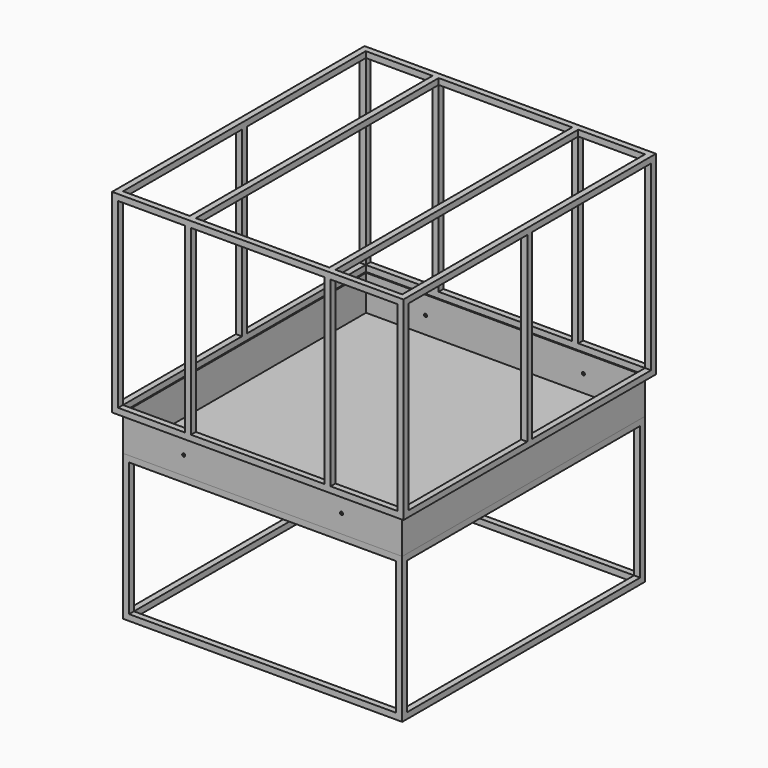
from build123d import *

# Parameters (mm, degrees)
F0_W      = 609.6
F0_H      = 406.4
F0_W_2    = 139.7
F0_H_2    = 381
F0_W_3    = 279.4
F1_DEPTH  = 660.4
F2_W      = 139.7
F2_H      = 152.4
F2_W_2    = 279.4
F2_H_2    = 304.8
F3_DEPTH  = 406.401
F4_W      = 152.4
F4_H      = 381
F4_W_2    = 304.8
F5_DEPTH  = 609.601
F6_W      = 12.7
F6_H      = 381
F7_DEPTH  = 304.8
F8_W      = 139.7
F8_H      = 12.7
F8_W_2    = 279.4
F9_DEPTH  = 406.401
F10_W     = 12.7
F10_H     = 635
F11_DEPTH = 25.4
F12_W     = 584.2
F12_H     = 635
F13_DEPTH = 76.2
F14_T     = -2.54
F15_R     = 3.175
F16_DEPTH = 647.701
F17_W     = 584.2
F17_H     = 635
F18_DEPTH = 304.8
F19_W     = 558.8
F19_H     = 279.4
F20_DEPTH = 647.701
F21_W     = 609.6
F21_H     = 279.4
F22_DEPTH = 596.901
F23_W     = 558.8
F23_H     = 609.6
F24_DEPTH = 787.401
F25_W     = 12.7
F25_H     = 381
F26_DEPTH = 609.601
F27_W     = 12.7
F27_H     = 381
F28_DEPTH = 12.7
F29_W     = 12.7
F29_H     = 381
F30_DEPTH = 12.7


with BuildPart() as f1:
    # F0 (on Front) → F1 (new body)
    with BuildSketch(Plane.XZ):
        with Locations((-304.8, 203.2)):
            Rectangle(F0_W, F0_H)
        with Locations((-527.05, 203.2)):
            Rectangle(F0_W_2, F0_H_2, mode=Mode.SUBTRACT)
        with Locations((-304.8, 203.2)):
            Rectangle(F0_W_3, F0_H_2, mode=Mode.SUBTRACT)
        with Locations((-82.55, 203.2)):
            Rectangle(F0_W_2, F0_H_2, mode=Mode.SUBTRACT)
    extrude(amount=F1_DEPTH)

    # F2 (on face) → F3 (cut, through all)
    with BuildSketch(Plane.XY.offset(406.4)):
        with Locations((-527.05, -88.9)):
            Rectangle(F2_W, F2_H)
        with Locations((-304.8, -88.9)):
            Rectangle(F2_W_2, F2_H)
        with Locations((-82.55, -88.9)):
            Rectangle(F2_W, F2_H)
        with Locations((-82.55, -330.2)):
            Rectangle(F2_W, F2_H_2)
        with Locations((-304.8, -330.2)):
            Rectangle(F2_W_2, F2_H_2)
        with Locations((-527.05, -330.2)):
            Rectangle(F2_W, F2_H_2)
        with Locations((-527.05, -571.5)):
            Rectangle(F2_W, F2_H)
        with Locations((-304.8, -571.5)):
            Rectangle(F2_W_2, F2_H)
        with Locations((-82.55, -571.5)):
            Rectangle(F2_W, F2_H)
    extrude(amount=-F3_DEPTH, mode=Mode.SUBTRACT)

    # F4 (on face) → F5 (cut, through all)
    with BuildSketch(Plane.YZ):
        with Locations((-571.5, 203.2)):
            Rectangle(F4_W, F4_H)
        with Locations((-330.2, 203.2)):
            Rectangle(F4_W_2, F4_H)
        with Locations((-88.9, 203.2)):
            Rectangle(F4_W, F4_H)
    extrude(amount=-F5_DEPTH, mode=Mode.SUBTRACT)

    # F6 (on face) → F7 (cut)
    with BuildSketch(Plane.YZ.offset(-152.4)):
        with Locations((-488.95, 203.2)):
            Rectangle(F6_W, F6_H)
        with Locations((-171.45, 203.2)):
            Rectangle(F6_W, F6_H)
    extrude(amount=-F7_DEPTH, mode=Mode.SUBTRACT)

    # F8 (on face) → F9 (cut, through all)
    with BuildSketch(Plane.XY.offset(406.4)):
        with Locations((-527.05, -171.45)):
            Rectangle(F8_W, F8_H)
        with Locations((-304.8, -171.45)):
            Rectangle(F8_W_2, F8_H)
        with Locations((-82.55, -171.45)):
            Rectangle(F8_W, F8_H)
        with Locations((-82.55, -488.95)):
            Rectangle(F8_W, F8_H)
        with Locations((-304.8, -488.95)):
            Rectangle(F8_W_2, F8_H)
        with Locations((-527.05, -488.95)):
            Rectangle(F8_W, F8_H)
    extrude(amount=-F9_DEPTH, mode=Mode.SUBTRACT)

    # F10 (on face) → F11 (cut)
    with BuildSketch(Plane(origin=(0, 0, 0), x_dir=(1, 0, 0), z_dir=(0, 0, -1))):
        with Locations((-450.85, 330.2)):
            Rectangle(F10_W, F10_H)
        with Locations((-158.75, 330.2)):
            Rectangle(F10_W, F10_H)
    extrude(amount=-F11_DEPTH, mode=Mode.SUBTRACT)

    # F25 (on face) → F26 (cut, through all)
    with BuildSketch(Plane.YZ):
        with Locations((-488.95, 203.2)):
            Rectangle(F25_W, F25_H)
        with Locations((-171.45, 203.2)):
            Rectangle(F25_W, F25_H)
    extrude(amount=-F26_DEPTH, mode=Mode.SUBTRACT)

    # F27 (on face) → F28 (join)
    with BuildSketch(Plane.YZ):
        with Locations((-330.2, 203.2)):
            Rectangle(F27_W, F27_H)
    extrude(amount=-F28_DEPTH)

    # F29 (on face) → F30 (join)
    with BuildSketch(Plane(origin=(-609.6, 0, 0), x_dir=(0, -1, 0), z_dir=(-1, 0, 0))):
        with Locations((330.2, 203.2)):
            Rectangle(F29_W, F29_H)
    extrude(amount=-F30_DEPTH)


with BuildPart() as f13:
    # F12 (on face) → F13 (new body)
    with BuildSketch(Plane(origin=(0, 0, 0), x_dir=(1, 0, 0), z_dir=(0, 0, -1))):
        with Locations((-304.8, 330.2)):
            Rectangle(F12_W, F12_H)
    extrude(amount=F13_DEPTH)

    # F14
    f14_openings = [f13.faces().sort_by_distance(p)[0] for p in [
        (-304.8, -330.2, 0),
    ]]
    offset(amount=F14_T, openings=f14_openings)

    # F15 (on face) → F16 (cut, through all)
    with BuildSketch(Plane.XZ.offset(647.7)):
        with Locations((-139.7, -38.1)):
            Circle(F15_R)
        with Locations((-469.9, -38.1)):
            Circle(F15_R)
    extrude(amount=-F16_DEPTH, mode=Mode.SUBTRACT)


with BuildPart() as f18:
    # F17 (on face) → F18 (new body)
    with BuildSketch(Plane(origin=(0, 0, -76.2), x_dir=(1, 0, 0), z_dir=(0, 0, -1))):
        with Locations((-304.8, 330.2)):
            Rectangle(F17_W, F17_H)
    extrude(amount=F18_DEPTH)

    # F19 (on face) → F20 (cut, through all)
    with BuildSketch(Plane.XZ.offset(647.7)):
        with Locations((-304.8, -228.6)):
            Rectangle(F19_W, F19_H)
    extrude(amount=-F20_DEPTH, mode=Mode.SUBTRACT)

    # F21 (on face) → F22 (cut, through all)
    with BuildSketch(Plane(origin=(-596.9, 0, 0), x_dir=(0, -1, 0), z_dir=(-1, 0, 0))):
        with Locations((330.2, -228.6)):
            Rectangle(F21_W, F21_H)
    extrude(amount=-F22_DEPTH, mode=Mode.SUBTRACT)

    # F23 (on face) → F24 (cut, through all)
    with BuildSketch(Plane(origin=(0, 0, -381), x_dir=(1, 0, 0), z_dir=(0, 0, -1))):
        with Locations((-304.8, 330.2)):
            Rectangle(F23_W, F23_H)
    extrude(amount=-F24_DEPTH, mode=Mode.SUBTRACT)


solid = Compound([f1.part, f13.part, f18.part])
